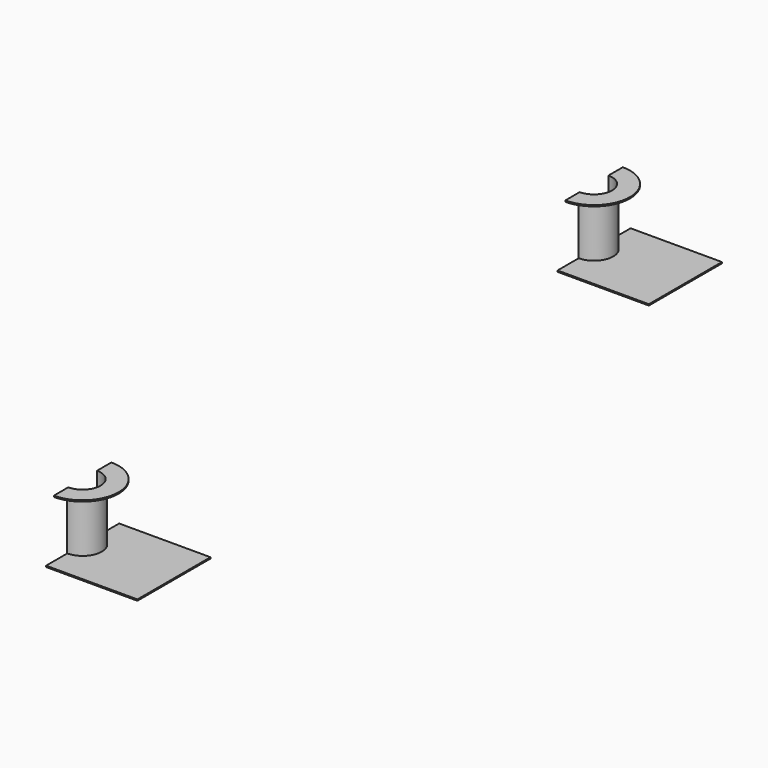
from build123d import *

# Parameters (mm, degrees)
PAD002_DEPTH  = 0.0348
PAD003_DEPTH  = 1.6048
PAD004_DEPTH  = 0.0348
ARRAY_Y_COUNT = 2
ARRAY_Y_PITCH = 17.78


with BuildPart() as array:
    # Sketch004 → Pad002 (new body)
    with BuildSketch(Plane.XY):
        with BuildLine():
            Line((-2.54, 1.27), (-2.54, -1.27))
            Line((-2.54, -1.27), (0, -1.27))
            Line((0, -1.27), (0, -0.5))
            ThreePointArc((0, 0.5), (-0.5, 0), (0, -0.5))
            Line((0, 0.5), (0, 1.27))
            Line((0, 1.27), (-2.54, 1.27))
        make_face()
    extrude(amount=PAD002_DEPTH)

    # Sketch005 → Pad003 (join)
    with BuildSketch(Plane.XY):
        with BuildLine():
            ThreePointArc((0, 0.5348), (-0.5348, 0), (0, -0.5348))
            Line((0, -0.5), (0, -0.5348))
            ThreePointArc((0, 0.5), (-0.5, 0), (0, -0.5))
            Line((0, 0.5348), (0, 0.5))
        make_face()
    extrude(amount=PAD003_DEPTH)

    # Sketch006 → Pad004 (join)
    with BuildSketch(Plane.XY.offset(1.6048)):
        with BuildLine():
            ThreePointArc((0, 0.5), (-0.5, 0), (0, -0.5))
            Line((0, -0.5), (0, -1))
            ThreePointArc((0, 1), (-1, 0), (0, -1))
            Line((0, 1), (0, 0.5))
        make_face()
    extrude(amount=PAD004_DEPTH)

    # Array Y: Array ×2


with BuildPart() as array_1:
    add(array.part)
    with Locations(*[(0, i * ARRAY_Y_PITCH, 0) for i in range(1, ARRAY_Y_COUNT)]):
        add(array.part)


with BuildPart() as array_2:
    # Array placement: moved
    add(array_1.part.moved(Location((12.7, -8.89, 0))))


with BuildPart() as part_mirroring:
    # Part__Mirroring: instance of Array
    add(array_2.part.mirror(Plane(origin=(0, 0, 0), x_dir=(0, -1, 0), z_dir=(1, 0, 0))))


solid = part_mirroring.part
